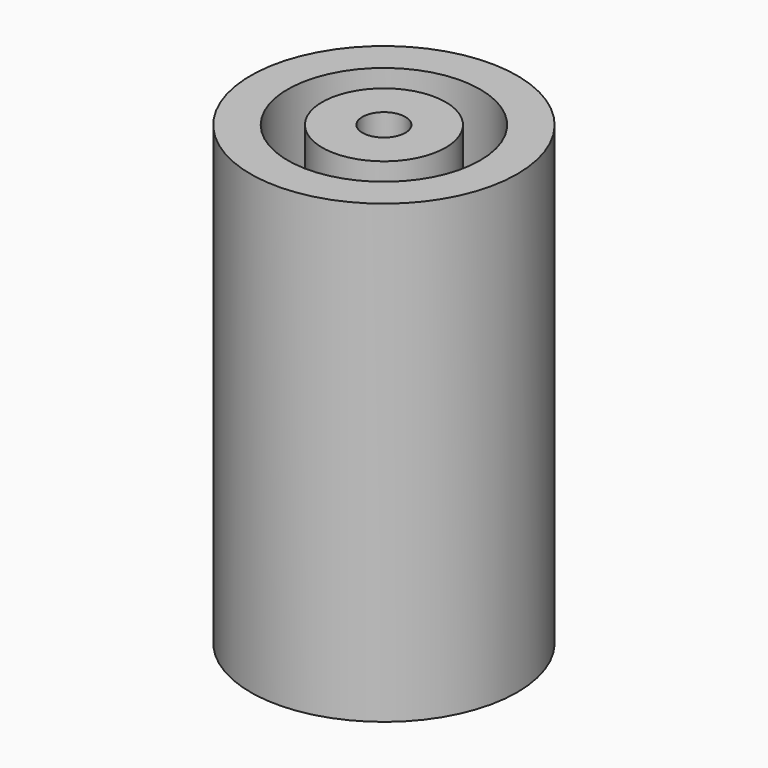
from build123d import *

# Parameters (mm, degrees)
F0_R      = 74.223578
F1_DEPTH  = 254
F2_R      = 11.980086
F3_DEPTH  = 25.4
F3_FACE_R = 11.980086
F4_DEPTH  = 228.6
F5_R      = 53.590302
F5_R_2    = 34.3718
F6_DEPTH  = 254


with BuildPart() as f1:
    # F0 (on Top) → F1 (new body)
    with BuildSketch(Plane.XY):
        Circle(F0_R)
    extrude(amount=F1_DEPTH)

    # F2 (on face) → F3 (cut)
    with BuildSketch(Plane(origin=(0, 0, 0), x_dir=(1, 0, 0), z_dir=(0, 0, -1))):
        Circle(F2_R)
    extrude(amount=-F3_DEPTH, mode=Mode.SUBTRACT)

    # F3_face (on face) → F4 (cut)
    with BuildSketch(Plane(origin=(0, 0, 25.4), x_dir=(1, 0, 0), z_dir=(0, 0, -1))):
        Circle(F3_FACE_R)
    extrude(amount=-F4_DEPTH, mode=Mode.SUBTRACT)

    # F5 (on face) → F6 (cut)
    with BuildSketch(Plane.XY.offset(254)):
        Circle(F5_R)
        Circle(F5_R_2, mode=Mode.SUBTRACT)
    extrude(amount=-F6_DEPTH, mode=Mode.SUBTRACT)


solid = f1.part
